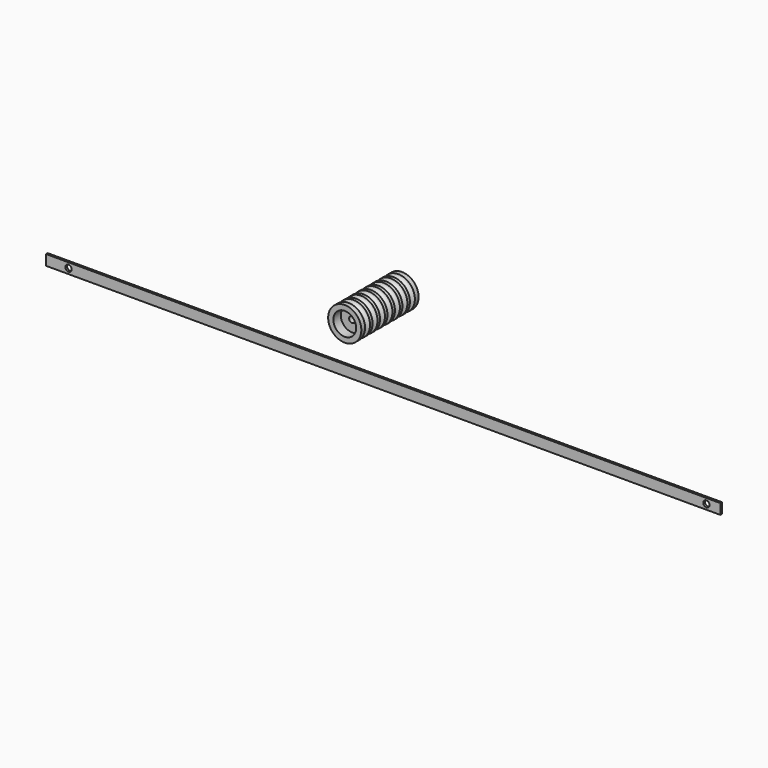
from build123d import *

# Parameters (mm, degrees)
F0_R      = 16
F1_DEPTH  = 34.5
F2_R      = 3
F4_R      = 3
F5_DEPTH  = 69.001
F6_R      = 11
F7_DEPTH  = 9
F8_R      = 11
F9_DEPTH  = 9
F10_W     = 650
F10_H     = 10
F11_DEPTH = 2
F12_R     = 3
F13_DEPTH = 25


with BuildPart() as f1:
    # F0 (on Front) → F1 (new body, symmetric)
    with BuildSketch(Plane.XZ):
        Circle(F0_R)
    extrude(amount=F1_DEPTH, both=True)

    # F2 (on Right) → F3 (revolve, cut)
    with BuildSketch(Plane.YZ):
        with Locations((-27, 16)):
            Circle(F2_R)
        with Locations((-18, 16)):
            Circle(F2_R)
        with Locations((-9, 16)):
            Circle(F2_R)
        with Locations((0, 16)):
            Circle(F2_R)
        with Locations((9, 16)):
            Circle(F2_R)
        with Locations((18, 16)):
            Circle(F2_R)
        with Locations((27, 16)):
            Circle(F2_R)
    revolve(axis=Axis((0, -34.5, 0), (0, -1, 0)), mode=Mode.SUBTRACT)

    # F4 (on face) → F5 (cut, through all)
    with BuildSketch(Plane.XZ.offset(34.5)):
        Circle(F4_R)
    extrude(amount=-F5_DEPTH, mode=Mode.SUBTRACT)

    # F6 (on face) → F7 (cut)
    with BuildSketch(Plane.XZ.offset(34.5)):
        Circle(F6_R)
    extrude(amount=-F7_DEPTH, mode=Mode.SUBTRACT)

    # F8 (on face) → F9 (cut)
    with BuildSketch(Plane(origin=(0, 34.5, 0), x_dir=(-1, 0, 0), z_dir=(0, 1, 0))):
        Circle(F8_R)
    extrude(amount=-F9_DEPTH, mode=Mode.SUBTRACT)


with BuildPart() as f11:
    # F10 (on face) → F11 (new body)
    with BuildSketch(Plane.XZ.offset(34.5)):
        with Locations((38.651231, -38.088349)):
            Rectangle(F10_W, F10_H)
    extrude(amount=F11_DEPTH)

    # F12 (on face) → F13 (cut)
    with BuildSketch(Plane.XZ.offset(36.5)):
        with BuildLine():
            ThreePointArc((347.28403, -38.088349), (350.28403, -41.088349), (353.28403, -38.088349))
            Line((353.28403, -38.088349), (347.28403, -38.088349))
        make_face()
        with BuildLine():
            Line((347.28403, -38.088349), (353.28403, -38.088349))
            ThreePointArc((353.28403, -38.088349), (350.28403, -35.088349), (347.28403, -38.088349))
        make_face()
        with Locations((-264.71597, -38.088349)):
            Circle(F12_R)
    extrude(amount=-F13_DEPTH, mode=Mode.SUBTRACT)


solid = Compound([f1.part, f11.part])
